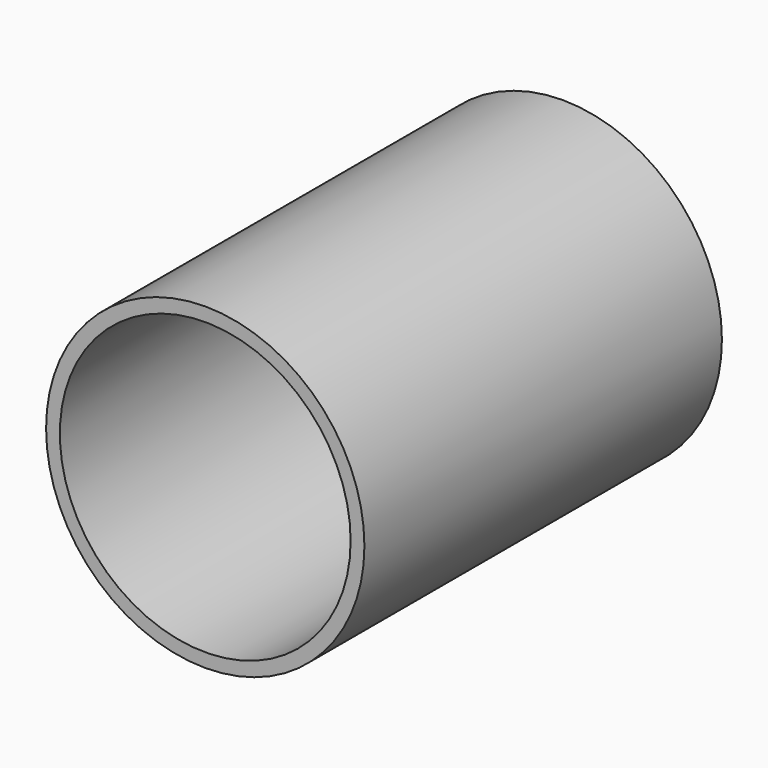
from build123d import *

# Parameters (mm, degrees)
F0_R     = 26
F1_DEPTH = 3
F2_R     = 26
F2_R_2   = 23.75
F3_DEPTH = 70
F5_D     = 5


with BuildPart() as f1:
    # F0 (on Front) → F1 (new body)
    with BuildSketch(Plane.XZ):
        Circle(F0_R)
    extrude(amount=F1_DEPTH)

    # F2 (on face) → F3 (join)
    with BuildSketch(Plane.XZ.offset(3)):
        Circle(F2_R)
        Circle(F2_R_2, mode=Mode.SUBTRACT)
    extrude(amount=F3_DEPTH)

    # F5 (through all)
    with Locations(Plane(origin=(0, 0, 0), x_dir=(-1, 0, 0), z_dir=(0, 1, 0))):
        with Locations((0, 0)):
            Hole(F5_D / 2)


solid = f1.part
